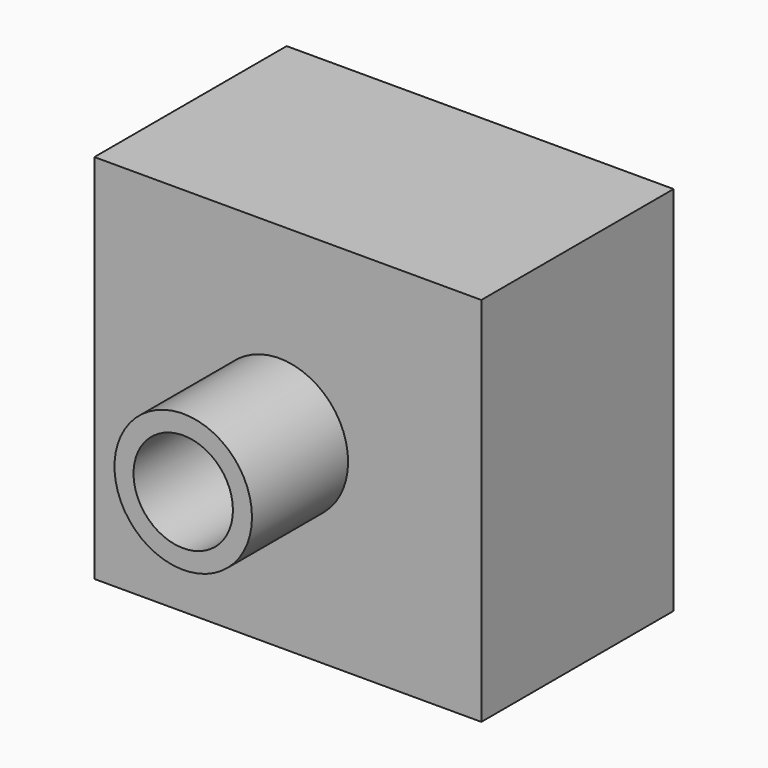
from build123d import *

# Parameters (mm, degrees)
F0_R     = 14.533387
F0_R_2   = 10.506037
F1_DEPTH = 50.8
F0_W     = 81.798442
F0_H     = 78.523383
F2_DEPTH = 25.4
F3_DEPTH = 25.4


with BuildPart() as f1:
    # F0 (on Front) → F1 (new body)
    with BuildSketch(Plane.XZ):
        with Locations((0, -5.688772)):
            Circle(F0_R)
        with Locations((0, -5.688772)):
            Circle(F0_R_2, mode=Mode.SUBTRACT)
    extrude(amount=F1_DEPTH)

    # F0 (on Front) → F2 (join)
    with BuildSketch(Plane.XZ):
        with Locations((1.802664, -5.688772)):
            Rectangle(F0_W, F0_H)
        with Locations((0, -5.688772)):
            Circle(F0_R, mode=Mode.SUBTRACT)
    extrude(amount=F2_DEPTH)

    # F0 (on Front) → F3 (join)
    with BuildSketch(Plane.XZ):
        with Locations((1.802664, -5.688772)):
            Rectangle(F0_W, F0_H)
        with Locations((0, -5.688772)):
            Circle(F0_R, mode=Mode.SUBTRACT)
    extrude(amount=-F3_DEPTH)


solid = f1.part
